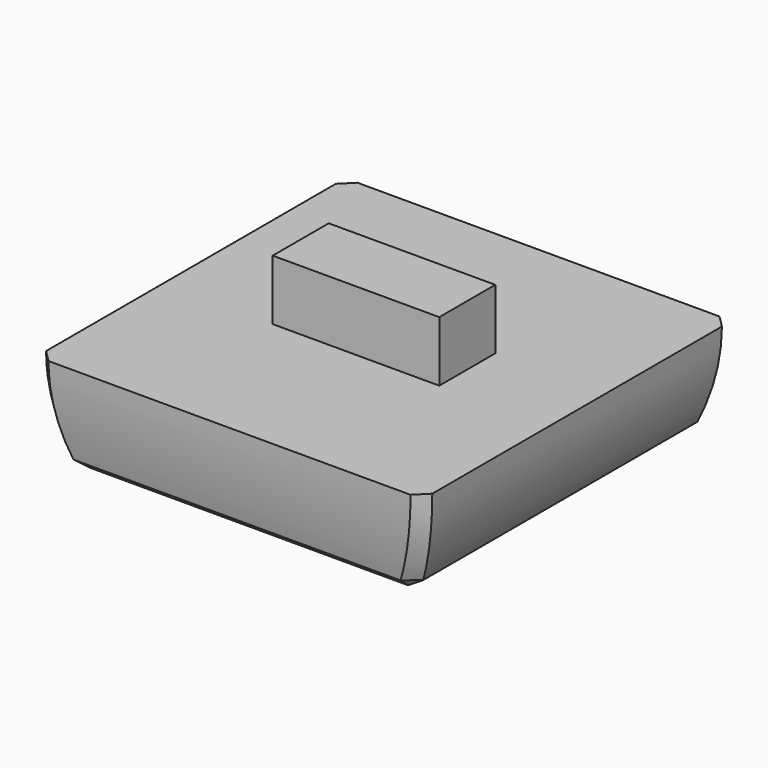
from build123d import *

# Parameters (mm, degrees)
SKETCH012_W             = 16
SKETCH012_H             = 16
PAD001_DEPTH            = 4
POCKET011_DEPTH         = 16.001
POCKET012_DEPTH         = 16.001
SKETCH015_W             = 2.9
SKETCH015_H             = 6.9
PAD002_DEPTH            = 2.5
CHAMFER_SIZE            = 0.5
BODY002_PLACEMENT_ANGLE = 180


with BuildPart() as part:
    # Sketch012 (on XY_Plane002 of Origin004) → Pad001 (new body)
    with BuildSketch(Plane.XY):
        with Locations((130.823461, 8)):
            Rectangle(SKETCH012_W, SKETCH012_H)
    extrude(amount=PAD001_DEPTH)

    # Sketch013 (on Face1 of Pad001) → Pocket011 (cut, through all)
    with BuildSketch(Plane.XZ):
        with BuildLine():
            ThreePointArc((123.723461, 4), (123.051239, 2.05), (122.823461, 0))
            Line((122.823461, 4), (122.823461, 0))
            Line((123.723461, 4), (122.823461, 4))
        make_face()
        with BuildLine():
            ThreePointArc((138.823461, 0), (138.595683, 2.05), (137.923461, 4))
            Line((137.923461, 4), (138.823461, 4))
            Line((138.823461, 4), (138.823461, 0))
        make_face()
    extrude(amount=-POCKET011_DEPTH, mode=Mode.SUBTRACT)

    # Sketch014 (on Face2 of Pad001) → Pocket012 (cut, through all)
    with BuildSketch(Plane.YZ.offset(138.823461)):
        with BuildLine():
            ThreePointArc((0.5, 4), (0.125485, 2.015564), (0, 0))
            Line((0, 0), (0, 4))
            Line((0.5, 4), (0, 4))
        make_face()
        with BuildLine():
            ThreePointArc((16, 0), (15.874515, 2.015564), (15.5, 4))
            Line((15.5, 4), (16, 4))
            Line((16, 4), (16, 0))
        make_face()
    extrude(amount=-POCKET012_DEPTH, mode=Mode.SUBTRACT)

    # Sketch015 → Pad002 (join)
    with BuildSketch(Plane(origin=(127.960214, 8.35, 0), x_dir=(0, 1, 0), z_dir=(0, 0, -1))):
        with Locations((-0.35, 2.863247)):
            Rectangle(SKETCH015_W, SKETCH015_H)
    extrude(amount=PAD002_DEPTH)

    # Chamfer
    chamfer_edges = [part.edges().sort_by_distance(p)[0] for p in [
        (123.054343, 0.131581, 2.06375),
        (138.592578, 0.131581, 2.06375),
        (138.592578, 15.868419, 2.06375),
        (123.054343, 15.868419, 2.06375),
        (123.723461, 8, 4),
        (130.823461, 15.5, 4),
        (137.923461, 8, 4),
        (130.823461, 0.5, 4),
    ]]
    chamfer(chamfer_edges, length=CHAMFER_SIZE)


with BuildPart() as part_1:
    # Body002 placement: moved
    add(part.part.moved(Location((48.422, -12.144, 0))).rotate(Axis((48.422, -12.144, 0), (1, 0, 0)), BODY002_PLACEMENT_ANGLE))


solid = part_1.part
